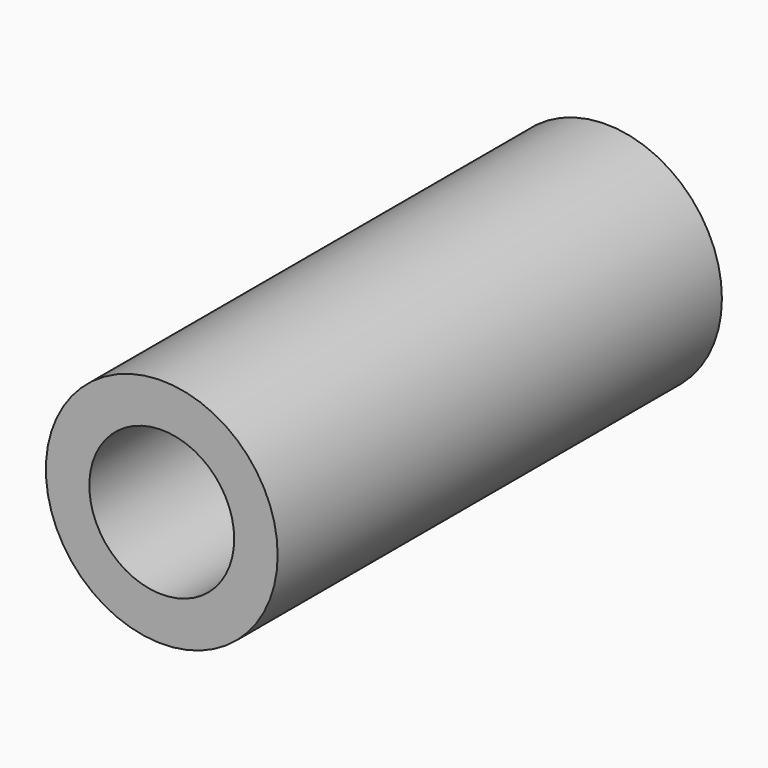
from build123d import *

# Parameters (mm, degrees)
F0_R     = 12
F1_DEPTH = 57.5
F2_R     = 7.5
F3_DEPTH = 2
F4_R     = 7.5
F5_DEPTH = 54
F6_R     = 4.25
F7_DEPTH = 8


with BuildPart() as f1:
    # F0 (on Front) → F1 (new body)
    with BuildSketch(Plane.XZ):
        Circle(F0_R)
    extrude(amount=F1_DEPTH)

    # F2 (on face) → F3 (join)
    with BuildSketch(Plane(origin=(0, 0, 0), x_dir=(-1, 0, 0), z_dir=(0, 1, 0))):
        Circle(F2_R)
    extrude(amount=F3_DEPTH)

    # F4 (on face) → F5 (cut)
    with BuildSketch(Plane.XZ.offset(57.5)):
        Circle(F4_R)
    extrude(amount=-F5_DEPTH, mode=Mode.SUBTRACT)

    # F6 (on face) → F7 (cut)
    with BuildSketch(Plane(origin=(0, 2, 0), x_dir=(-1, 0, 0), z_dir=(0, 1, 0))):
        Circle(F6_R)
    extrude(amount=-F7_DEPTH, mode=Mode.SUBTRACT)


solid = f1.part
